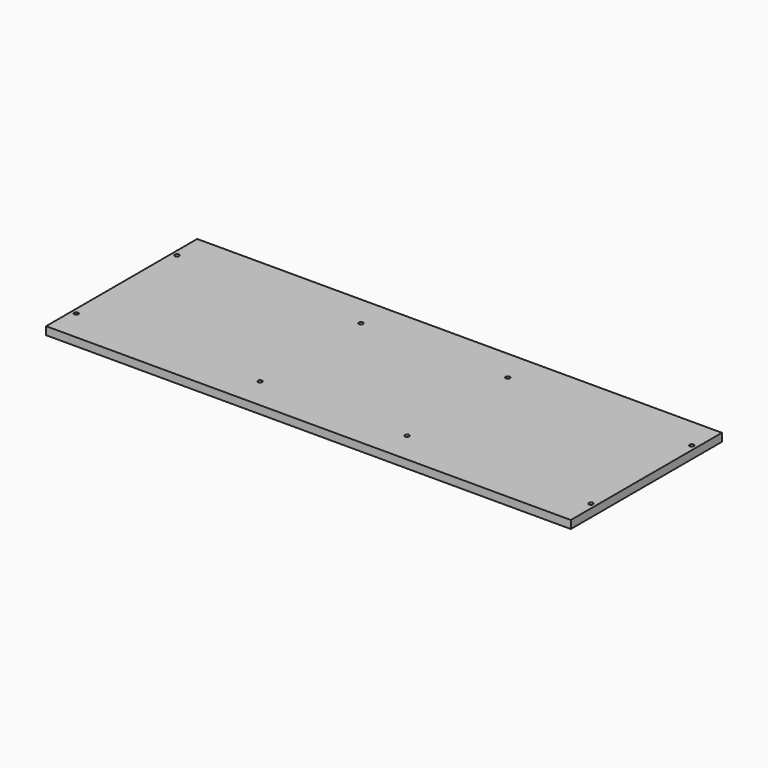
from build123d import *

# Parameters (mm, degrees)
F0_W     = 1250
F0_H     = 450
F1_DEPTH = 19
F3_D     = 10
F3_DEPTH = 13
F3_TIP   = 3.0043030951


with BuildPart() as f1:
    # F0 (on Top) → F1 (new body)
    with BuildSketch(Plane.XY):
        Rectangle(F0_W, F0_H)
    extrude(amount=F1_DEPTH)

    # F3
    with Locations(Plane.XY.offset(19)):
        with Locations((-613, 150), (-175, 150), (175, 150), (613, 150), (613, -150), (175, -150), (-175, -150), (-613, -150)):
            Hole(F3_D / 2, depth=F3_DEPTH)
            with Locations((0, 0, -(F3_DEPTH + F3_TIP / 2))):  # 118° drill point
                Cone(0, F3_D / 2, F3_TIP, mode=Mode.SUBTRACT)


solid = f1.part
